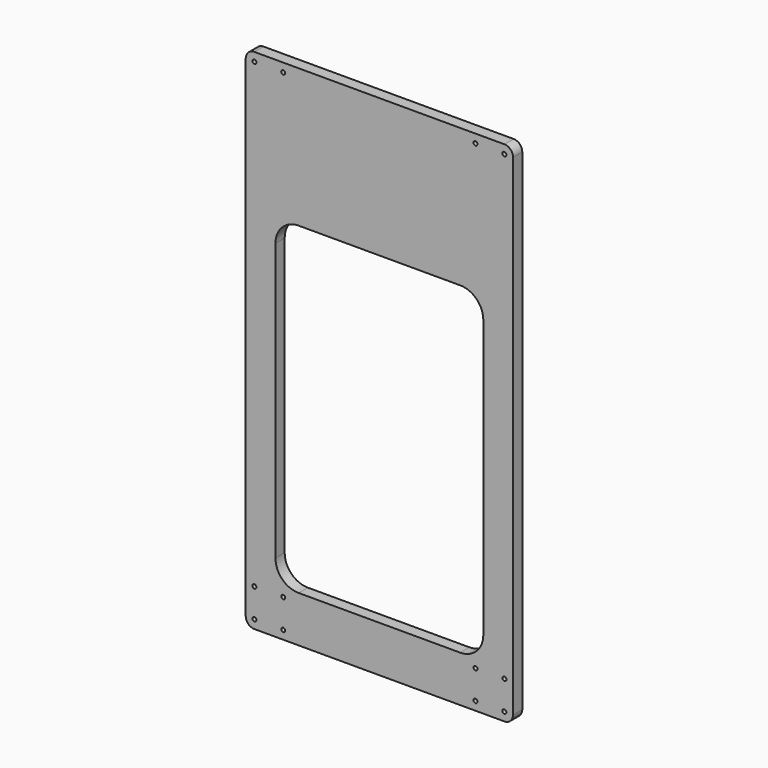
from build123d import *

# Parameters (mm, degrees)
F0_W     = 294.005
F0_H     = 558.8
F1_DEPTH = 12.7
F3_D     = 4.4
F4_R     = 9.525
F6_DEPTH = 12.701


with BuildPart() as f1:
    # F0 (on Front) → F1 (new body)
    with BuildSketch(Plane.XZ):
        Rectangle(F0_W, F0_H)
    extrude(amount=F1_DEPTH)

    # F3 (through all)
    with Locations(Plane.XZ.offset(12.7)):
        with Locations((-137.4775, 269.875), (-105.7275, 269.875), (105.7275, 269.875), (137.4775, 269.875), (105.7275, -238.125), (137.4775, -238.125), (137.4775, -269.875), (105.7275, -269.875), (-105.7275, -269.875), (-137.4775, -269.875), (-137.4775, -238.125), (-105.7275, -238.125)):
            Hole(F3_D / 2)

    # F4
    f4_edges = [f1.edges().sort_by_distance(p)[0] for p in [
        (147.0025, -6.35, 279.4),
        (147.0025, -6.35, -279.4),
        (-147.0025, -6.35, -279.4),
        (-147.0025, -6.35, 279.4),
    ]]
    fillet(f4_edges, radius=F4_R)

    # F5 (on face) → F6 (cut, through all)
    with BuildSketch(Plane.XZ.offset(12.7)):
        with BuildLine():
            Line((88.9, 127), (-88.9, 127))
            ThreePointArc((-88.9, 127), (-106.8605122421, 119.5605122421), (-114.3, 101.6))
            Line((-114.3, 101.6), (-114.3, -203.2))
            ThreePointArc((-114.3, -203.2), (-106.8605122421, -221.1605122421), (-88.9, -228.6))
            Line((-88.9, -228.6), (88.9, -228.6))
            ThreePointArc((88.9, -228.6), (106.8605122421, -221.1605122421), (114.3, -203.2))
            Line((114.3, -203.2), (114.3, 101.6))
            ThreePointArc((114.3, 101.6), (106.8605122421, 119.5605122421), (88.9, 127))
        make_face()
    extrude(amount=-F6_DEPTH, mode=Mode.SUBTRACT)


solid = f1.part
